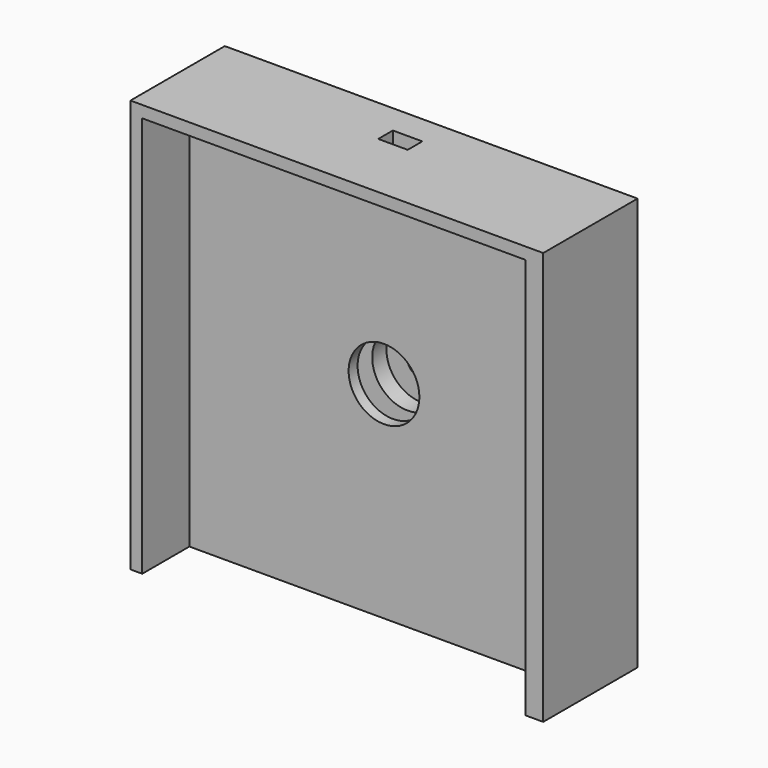
from build123d import *

# Parameters (mm, degrees)
F0_W     = 70
F0_H     = 70
F0_R     = 2.5
F1_DEPTH = 20
F2_W     = 40.2
F2_H     = 3.1
F3_DEPTH = 55
F4_R     = 6
F5_DEPTH = 18
F6_W     = 65
F6_H     = 68
F7_DEPTH = 10
F8_W     = 5
F8_H     = 3.1
F9_DEPTH = 15.001


with BuildPart() as f1:
    # F0 (on Front) → F1 (new body)
    with BuildSketch(Plane.XZ):
        Rectangle(F0_W, F0_H)
        Circle(F0_R, mode=Mode.SUBTRACT)
    extrude(amount=F1_DEPTH)

    # F2 (on face) → F3 (cut)
    with BuildSketch(Plane(origin=(0, 0, -35), x_dir=(1, 0, 0), z_dir=(0, 0, -1))):
        with Locations((0, 6.55)):
            Rectangle(F2_W, F2_H)
    extrude(amount=-F3_DEPTH, mode=Mode.SUBTRACT)

    # F4 (on face) → F5 (cut)
    with BuildSketch(Plane.XZ.offset(20)):
        Circle(F4_R)
    extrude(amount=-F5_DEPTH, mode=Mode.SUBTRACT)

    # F6 (on face) → F7 (cut)
    with BuildSketch(Plane.XZ.offset(20)):
        with Locations((-0.5, -1)):
            Rectangle(F6_W, F6_H)
    extrude(amount=-F7_DEPTH, mode=Mode.SUBTRACT)

    # F8 (on face) → F9 (cut, through all)
    with BuildSketch(Plane(origin=(0, 0, 20), x_dir=(1, 0, 0), z_dir=(0, 0, -1))):
        with Locations((0, 6.55)):
            Rectangle(F8_W, F8_H)
    extrude(amount=-F9_DEPTH, mode=Mode.SUBTRACT)


solid = f1.part
